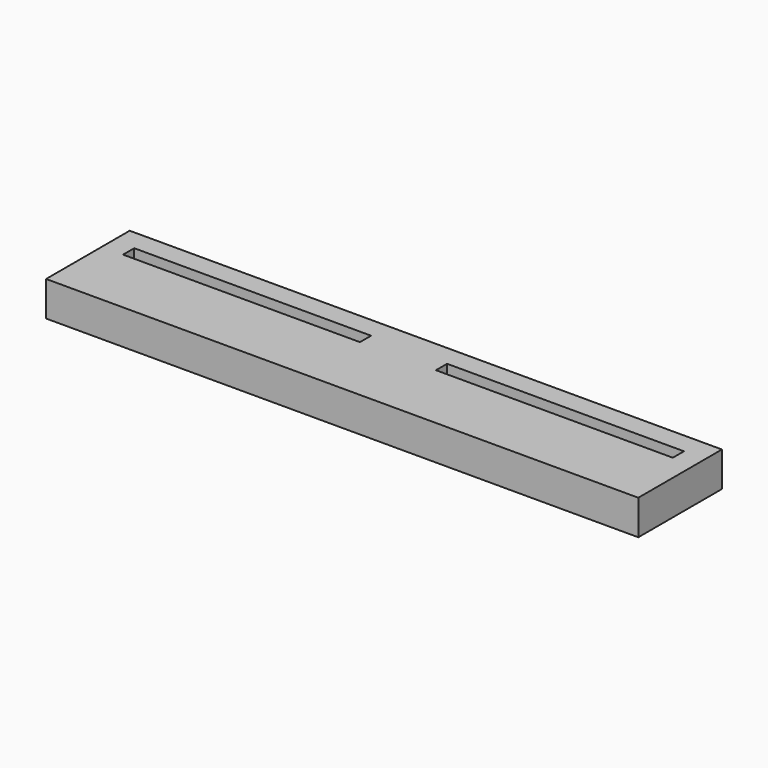
from build123d import *

# Parameters (mm, degrees)
F0_W     = 85
F0_H     = 15
F1_DEPTH = 5
F2_W     = 34
F2_H     = 2
F3_DEPTH = 5.001


with BuildPart() as f1:
    # F0 (on Top) → F1 (new body)
    with BuildSketch(Plane.XY):
        Rectangle(F0_W, F0_H)
    extrude(amount=F1_DEPTH)

    # F2 (on Top) → F3 (cut, through all)
    with BuildSketch(Plane.XY):
        with Locations((-22.451008, 3.5)):
            Rectangle(F2_W, F2_H)
        with Locations((22.451008, 3.5)):
            Rectangle(F2_W, F2_H)
    extrude(amount=F3_DEPTH, mode=Mode.SUBTRACT)


solid = f1.part
